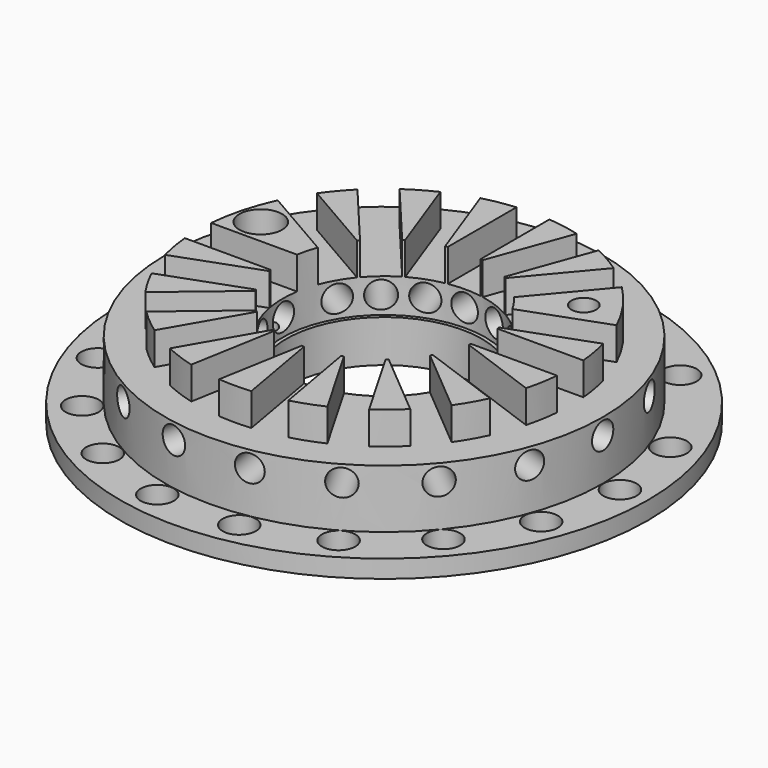
from build123d import *

# Parameters (mm, degrees)
F4_DEPTH  = 2.001
F5_R      = 1.0241666667
F6_DEPTH  = 1.101
F7_R      = 1.3143333333
F8_DEPTH  = 6.701
F9_R      = 0.7643333333
F10_DEPTH = 6.7
F11_R     = 0.4143333333
F12_DEPTH = 3.7
F14_W     = 11
F14_H     = 0.8183333333
F16_COUNT = 11
F16_ANGLE = 200
F17_ANGLE = -30
F18_COUNT = 6
F18_ANGLE = 100
F21_R     = 24.5
F21_R_2   = 23.9
F22_DEPTH = 0.7
F23_SCALE = 3


with BuildPart() as f1:
    # F0 (on Front) → F1 (revolve)
    with BuildSketch(Plane.XZ):
        Polygon((6.0196666667, 2.6), (6.0196666667, 0), (16.25, 0), (16.25, 1.1), (13.4806666667, 1.1), (13.4806666667, 4.7), (11.5, 4.7), (11.5, 6.7), (6.25, 6.7), (6.25, 2.6), align=None)
    revolve(axis=Axis((0, 0, 3.35), (0, 0, 1)))

    # F3 (on offset) → F4 (cut, through all)
    with BuildSketch(Plane.XY.offset(4.7)):
        Polygon((-5, 1.0133333333), (-15, 1.0133333333), (-15, -1.0133333333), (-5.7468989105, -1.0133333333), (-5.0450435158, -0.7578788609), (-5, -0.8816349035), align=None)
        Polygon((-5.0450435158, -0.7578788609), (-5.7468989105, -1.0133333333), (-5, -1.0133333333), (-5, -0.8816349035), align=None)
        Polygon((-5, -1.0133333333), (-5.7468989105, -1.0133333333), (-14.4419697237, -4.1780802942), (-13.7488088999, -6.0825240056), (-5.0537380867, -2.9177770448), (-4.4815803267, -2.4376796794), (-4.3969262079, -2.5385665297), (-5, -0.8816349035), align=None)
        Polygon((-3.2635182233, -3.8893095672), (-4.3969262079, -2.5385665297), (-4.351882692, -2.6623225724), (-5.0537380867, -2.9177770448), (-12.1420247579, -8.8655557763), (-10.8393085356, -10.4180725143), (-3.7510218644, -4.4702937828), (-3.3775724092, -3.8234603523), align=None)
        Polygon((-4.351882692, -2.6623225724), (-4.3969262079, -2.5385665297), (-4.4815803267, -2.4376796794), (-5.0537380867, -2.9177770448), align=None)
        Polygon((-1.7364817767, -4.7709444707), (-3.2635182233, -3.8893095672), (-3.1788641044, -3.9901964175), (-3.7510218644, -4.4702937828), (-8.3775724092, -12.4837143901), (-6.6224275908, -13.4970477234), (-1.9958770461, -5.4836271162), (-1.8661794114, -4.7480752784), align=None)
        Polygon((-3.1788641044, -3.9901964175), (-3.2635182233, -3.8893095672), (-3.3775724092, -3.8234603523), (-3.7510218644, -4.4702937828), align=None)
        Polygon((0, -5.0771330594), (-1.7364817767, -4.7709444707), (-1.6224275908, -4.8367936856), (-1.9958770461, -5.4836271162), (-3.6026611881, -14.5961528085), (-1.606784142, -14.9480797819), (0, -5.8355540896), (-0.1296976347, -5.1000022518), align=None)
        Polygon((-1.6224275908, -4.8367936856), (-1.7364817767, -4.7709444707), (-1.8661794114, -4.7480752784), (-1.9958770461, -5.4836271162), align=None)
        Polygon((1.7364817767, -4.7709444707), (0, -5.0771330594), (0.1296976347, -5.1000022518), (0, -5.8355540896), (1.606784142, -14.9480797819), (3.6026611881, -14.5961528085), (1.9958770461, -5.4836271162), (1.6224275908, -4.8367936856), align=None)
        Polygon((0.1296976347, -5.1000022518), (0, -5.0771330594), (-0.1296976347, -5.1000022518), (0, -5.8355540896), align=None)
        Polygon((3.2635182233, -3.8893095672), (1.7364817767, -4.7709444707), (1.8661794114, -4.7480752784), (1.9958770461, -5.4836271162), (6.6224275908, -13.4970477234), (8.3775724092, -12.4837143901), (3.7510218644, -4.4702937828), (3.1788641044, -3.9901964175), align=None)
        Polygon((1.8661794114, -4.7480752784), (1.7364817767, -4.7709444707), (1.6224275908, -4.8367936856), (1.9958770461, -5.4836271162), align=None)
        Polygon((4.3969262079, -2.5385665297), (3.2635182233, -3.8893095672), (3.3775724092, -3.8234603523), (3.7510218644, -4.4702937828), (10.8393085356, -10.4180725143), (12.1420247579, -8.8655557763), (5.0537380867, -2.9177770448), (4.351882692, -2.6623225724), align=None)
        Polygon((3.3775724092, -3.8234603523), (3.2635182233, -3.8893095672), (3.1788641044, -3.9901964175), (3.7510218644, -4.4702937828), align=None)
        Polygon((5, -0.8816349035), (4.3969262079, -2.5385665297), (4.4815803267, -2.4376796794), (5.0537380867, -2.9177770448), (13.7488088999, -6.0825240056), (14.4419697237, -4.1780802942), (5.7468989105, -1.0133333333), (5, -1.0133333333), align=None)
        Polygon((4.4815803267, -2.4376796794), (4.3969262079, -2.5385665297), (4.351882692, -2.6623225724), (5.0537380867, -2.9177770448), align=None)
        Polygon((5, 0.8816349035), (5, -0.8816349035), (5.0450435158, -0.7578788609), (5.7468989105, -1.0133333333), (15, -1.0133333333), (15, 1.0133333333), (5.7468989105, 1.0133333333), (5.0450435158, 0.7578788609), align=None)
        Polygon((5.0450435158, -0.7578788609), (5, -0.8816349035), (5, -1.0133333333), (5.7468989105, -1.0133333333), align=None)
        Polygon((4.351882692, 2.6623225724), (5, 0.8816349035), (5, 1.0133333333), (5.7468989105, 1.0133333333), (14.4419697237, 4.1780802942), (13.7488088999, 6.0825240056), align=None)
        Polygon((5, 1.0133333333), (5, 0.8816349035), (5.0450435158, 0.7578788609), (5.7468989105, 1.0133333333), align=None)
        Polygon((-12.4837143901, 8.3775724092), (-13.4970477234, 6.6224275908), (-4.8367936856, 1.6224275908), (-3.8893095672, 3.2635182233), (-3.9901964175, 3.1788641044), (-4.4702937828, 3.7510218644), align=None)
        Polygon((-3.9901964175, 3.1788641044), (-3.8893095672, 3.2635182233), (-3.8234603523, 3.3775724092), (-4.4702937828, 3.7510218644), align=None)
        Polygon((-3.8234603523, 3.3775724092), (-3.8893095672, 3.2635182233), (-2.5385665297, 4.3969262079), (-2.6623225724, 4.351882692), (-2.9177770448, 5.0537380867), (-8.8655557763, 12.1420247579), (-10.4180725143, 10.8393085356), (-4.4702937828, 3.7510218644), align=None)
        Polygon((-2.6623225724, 4.351882692), (-2.5385665297, 4.3969262079), (-2.4376796794, 4.4815803267), (-2.9177770448, 5.0537380867), align=None)
        Polygon((-2.4376796794, 4.4815803267), (-2.5385665297, 4.3969262079), (-0.8816349035, 5), (-1.0133333333, 5), (-1.0133333333, 5.7468989105), (-4.1780802942, 14.4419697237), (-6.0825240056, 13.7488088999), (-2.9177770448, 5.0537380867), align=None)
        Polygon((-1.0133333333, 5), (-0.8816349035, 5), (-0.7578788609, 5.0450435158), (-1.0133333333, 5.7468989105), align=None)
        Polygon((-0.7578788609, 5.0450435158), (-0.8816349035, 5), (0.8816349035, 5), (0.7578788609, 5.0450435158), (1.0133333333, 5.7468989105), (1.0133333333, 15), (-1.0133333333, 15), (-1.0133333333, 5.7468989105), align=None)
        Polygon((0.7578788609, 5.0450435158), (0.8816349035, 5), (1.0133333333, 5), (1.0133333333, 5.7468989105), align=None)
        Polygon((1.0133333333, 5), (0.8816349035, 5), (2.5385665297, 4.3969262079), (2.4376796794, 4.4815803267), (2.9177770448, 5.0537380867), (6.0825240056, 13.7488088999), (4.1780802942, 14.4419697237), (1.0133333333, 5.7468989105), align=None)
        Polygon((2.4376796794, 4.4815803267), (2.5385665297, 4.3969262079), (2.6623225724, 4.351882692), (2.9177770448, 5.0537380867), align=None)
        Polygon((2.6623225724, 4.351882692), (2.5385665297, 4.3969262079), (3.9901964175, 3.1788641044), (10.4180725143, 10.8393085356), (8.8655557763, 12.1420247579), (2.9177770448, 5.0537380867), align=None)
    extrude(amount=F4_DEPTH, mode=Mode.SUBTRACT)

    # F5 (on face) → F6 (cut, through all)
    with BuildSketch(Plane.XY.offset(1.1)):
        with Locations((-14.52, 0)):
            Circle(F5_R)
        with Locations((-12.574688863, 7.26)):
            Circle(F5_R)
        with Locations((-13.6443368538, -4.9661324811)):
            Circle(F5_R)
        with Locations((-11.1229653141, -9.3332760926)):
            Circle(F5_R)
        with Locations((-7.26, -12.574688863)):
            Circle(F5_R)
        with Locations((-2.5213715397, -14.2994085737)):
            Circle(F5_R)
        with Locations((2.5213715397, -14.2994085737)):
            Circle(F5_R)
        with Locations((7.26, -12.574688863)):
            Circle(F5_R)
        with Locations((11.1229653141, -9.3332760926)):
            Circle(F5_R)
        with Locations((13.6443368538, -4.9661324811)):
            Circle(F5_R)
        with Locations((14.52, 0)):
            Circle(F5_R)
        with Locations((13.6443368538, 4.9661324811)):
            Circle(F5_R)
        with Locations((-9.3332760926, 11.1229653141)):
            Circle(F5_R)
        with Locations((-4.9661324811, 13.6443368538)):
            Circle(F5_R)
        with Locations((0, 14.52)):
            Circle(F5_R)
        with Locations((4.9661324811, 13.6443368538)):
            Circle(F5_R)
        with Locations((9.3332760926, 11.1229653141)):
            Circle(F5_R)
    extrude(amount=-F6_DEPTH, mode=Mode.SUBTRACT)

    # F7 (on face) → F8 (cut, through all)
    with BuildSketch(Plane(origin=(0, 0, 0), x_dir=(1, 0, 0), z_dir=(0, 0, -1))):
        with Locations((-9.6592582629, -2.588190451)):
            Circle(F7_R)
    extrude(amount=-F8_DEPTH, mode=Mode.SUBTRACT)

    # F9 (on face) → F10 (cut, through all)
    with BuildSketch(Plane.XY.offset(6.7)):
        with Locations((7.8802426661, 5.5178053177)):
            Circle(F9_R)
    extrude(amount=-F10_DEPTH, mode=Mode.SUBTRACT)

    # F11 (on face) → F12 (cut)
    with BuildSketch(Plane(origin=(0, 0, 0), x_dir=(1, 0, 0), z_dir=(0, 0, -1))):
        with Locations((-7, 0)):
            Circle(F11_R)
        with Locations((7, 0)):
            Circle(F11_R)
    extrude(amount=-F12_DEPTH, mode=Mode.SUBTRACT)


with BuildPart() as f15:
    # F14 (on offset) → F15 (revolve)
    with BuildSketch(Plane.XY.offset(3.7)):
        with Locations((-11.6961948449, 0.4091666667)):
            Rectangle(F14_W, F14_H)
    revolve(axis=Axis((-11.6961948449, 0, 3.7), (1, 0, 0)))


with BuildPart() as f16_1:
    # F16: instance of F15
    add(f15.part.rotate(Axis((0, 0, 3.35), (0, 0, 1)), 1 * F16_ANGLE / (F16_COUNT - 1)))


with BuildPart() as f16_2:
    # F16: instance of F15
    add(f15.part.rotate(Axis((0, 0, 3.35), (0, 0, 1)), 2 * F16_ANGLE / (F16_COUNT - 1)))


with BuildPart() as f16_3:
    # F16: instance of F15
    add(f15.part.rotate(Axis((0, 0, 3.35), (0, 0, 1)), 3 * F16_ANGLE / (F16_COUNT - 1)))


with BuildPart() as f16_4:
    # F16: instance of F15
    add(f15.part.rotate(Axis((0, 0, 3.35), (0, 0, 1)), 4 * F16_ANGLE / (F16_COUNT - 1)))


with BuildPart() as f16_5:
    # F16: instance of F15
    add(f15.part.rotate(Axis((0, 0, 3.35), (0, 0, 1)), 5 * F16_ANGLE / (F16_COUNT - 1)))


with BuildPart() as f16_6:
    # F16: instance of F15
    add(f15.part.rotate(Axis((0, 0, 3.35), (0, 0, 1)), 6 * F16_ANGLE / (F16_COUNT - 1)))


with BuildPart() as f16_7:
    # F16: instance of F15
    add(f15.part.rotate(Axis((0, 0, 3.35), (0, 0, 1)), 7 * F16_ANGLE / (F16_COUNT - 1)))


with BuildPart() as f16_8:
    # F16: instance of F15
    add(f15.part.rotate(Axis((0, 0, 3.35), (0, 0, 1)), 8 * F16_ANGLE / (F16_COUNT - 1)))


with BuildPart() as f16_9:
    # F16: instance of F15
    add(f15.part.rotate(Axis((0, 0, 3.35), (0, 0, 1)), 9 * F16_ANGLE / (F16_COUNT - 1)))


with BuildPart() as f16_10:
    # F16: instance of F15
    add(f15.part.rotate(Axis((0, 0, 3.35), (0, 0, 1)), 10 * F16_ANGLE / (F16_COUNT - 1)))


with BuildPart() as f17_1:
    # F17: copy of F15
    add(f15.part.rotate(Axis((0, 0, 3.35), (0, 0, 1)), F17_ANGLE))


with BuildPart() as f18_1:
    # F18: instance of F17_1
    add(f17_1.part.rotate(Axis((0, 0, 3.35), (0, 0, -1)), 1 * F18_ANGLE / (F18_COUNT - 1)))


with BuildPart() as f18_2:
    # F18: instance of F17_1
    add(f17_1.part.rotate(Axis((0, 0, 3.35), (0, 0, -1)), 2 * F18_ANGLE / (F18_COUNT - 1)))


with BuildPart() as f18_3:
    # F18: instance of F17_1
    add(f17_1.part.rotate(Axis((0, 0, 3.35), (0, 0, -1)), 3 * F18_ANGLE / (F18_COUNT - 1)))


with BuildPart() as f18_4:
    # F18: instance of F17_1
    add(f17_1.part.rotate(Axis((0, 0, 3.35), (0, 0, -1)), 4 * F18_ANGLE / (F18_COUNT - 1)))


with BuildPart() as f18_5:
    # F18: instance of F17_1
    add(f17_1.part.rotate(Axis((0, 0, 3.35), (0, 0, -1)), 5 * F18_ANGLE / (F18_COUNT - 1)))


with BuildPart() as f1_1:
    add(f1.part)

    # F19: cut F15, F16_1, F16_2, F16_3, F16_4, F16_5, F16_6, F16_7, F16_8, F16_9, F16_10, F17_1, F18_1, F18_2, F18_3, F18_4, F18_5
    add(f15.part, mode=Mode.SUBTRACT)
    add(f16_1.part, mode=Mode.SUBTRACT)
    add(f16_2.part, mode=Mode.SUBTRACT)
    add(f16_3.part, mode=Mode.SUBTRACT)
    add(f16_4.part, mode=Mode.SUBTRACT)
    add(f16_5.part, mode=Mode.SUBTRACT)
    add(f16_6.part, mode=Mode.SUBTRACT)
    add(f16_7.part, mode=Mode.SUBTRACT)
    add(f16_8.part, mode=Mode.SUBTRACT)
    add(f16_9.part, mode=Mode.SUBTRACT)
    add(f16_10.part, mode=Mode.SUBTRACT)
    add(f17_1.part, mode=Mode.SUBTRACT)
    add(f18_1.part, mode=Mode.SUBTRACT)
    add(f18_2.part, mode=Mode.SUBTRACT)
    add(f18_3.part, mode=Mode.SUBTRACT)
    add(f18_4.part, mode=Mode.SUBTRACT)
    add(f18_5.part, mode=Mode.SUBTRACT)

    # F21 (on offset) → F22 (cut)
    with BuildSketch(Plane.XY.offset(0.7)):
        Circle(F21_R)
        Circle(F21_R_2, mode=Mode.SUBTRACT)
    extrude(amount=F22_DEPTH, mode=Mode.SUBTRACT)


with BuildPart() as f1_2:
    # F23: moved
    add(f1_1.part.scale(F23_SCALE))


solid = f1_2.part
